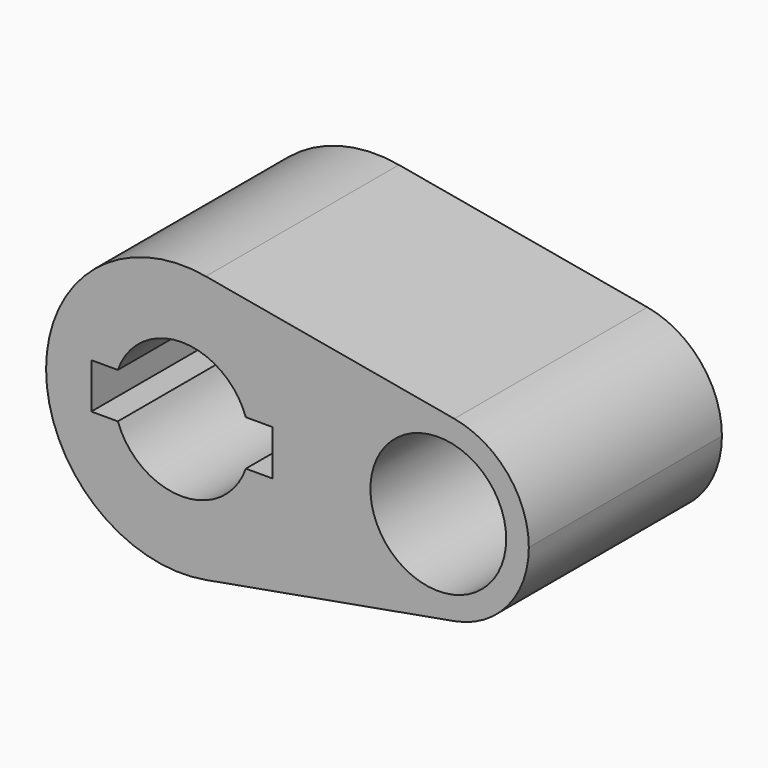
from build123d import *

# Parameters (mm, degrees)
F0_R     = 14.2875
F1_DEPTH = 25.4
F2_DEPTH = 50.8


with BuildPart() as f1:
    # F0 (on Front) → F1 (new body)
    with BuildSketch(Plane.XZ):
        with BuildLine():
            ThreePointArc((5.042647, -28.126541), (21.916025, -18.336262), (28.575, 0))
            ThreePointArc((28.575, 0), (21.916025, 18.336262), (5.042647, 28.126541))
            ThreePointArc((5.042647, 28.126541), (-28.575, 0), (5.042647, -28.126541))
        make_face()
        with BuildLine():
            ThreePointArc((-13.470384, 4.7625), (0, 14.2875), (13.470384, 4.7625))
            Line((13.470384, 4.7625), (19.05, 4.7625))
            Line((19.05, 4.7625), (19.05, -4.7625))
            Line((19.05, -4.7625), (13.470384, -4.7625))
            ThreePointArc((13.470384, -4.7625), (0, -14.2875), (-13.470384, -4.7625))
            Line((-13.470384, -4.7625), (-19.05, -4.7625))
            Line((-19.05, -4.7625), (-19.05, 4.7625))
            Line((-19.05, 4.7625), (-13.470384, 4.7625))
        make_face(mode=Mode.SUBTRACT)
        with BuildLine():
            ThreePointArc((73.025, 0), (68.585683, 12.224174), (57.336765, 18.751028))
            ThreePointArc((57.336765, 18.751028), (34.925, 0), (57.336765, -18.751028))
            ThreePointArc((57.336765, -18.751028), (68.585683, -12.224174), (73.025, 0))
        make_face()
        with Locations((53.975, 0)):
            Circle(F0_R, mode=Mode.SUBTRACT)
        with BuildLine():
            ThreePointArc((5.042647, 28.126541), (21.916025, 18.336262), (28.575, 0))
            ThreePointArc((28.575, 0), (21.916025, -18.336262), (5.042647, -28.126541))
            Line((5.042647, -28.126541), (57.336765, -18.751028))
            ThreePointArc((57.336765, -18.751028), (34.925, 0), (57.336765, 18.751028))
            Line((57.336765, 18.751028), (5.042647, 28.126541))
        make_face()
    extrude(amount=F1_DEPTH)

    # F0 (on Front) → F2 (join)
    with BuildSketch(Plane.XZ):
        with BuildLine():
            ThreePointArc((5.042647, -28.126541), (21.916025, -18.336262), (28.575, 0))
            ThreePointArc((28.575, 0), (21.916025, 18.336262), (5.042647, 28.126541))
            ThreePointArc((5.042647, 28.126541), (-28.575, 0), (5.042647, -28.126541))
        make_face()
        with BuildLine():
            ThreePointArc((-13.470384, 4.7625), (0, 14.2875), (13.470384, 4.7625))
            Line((13.470384, 4.7625), (19.05, 4.7625))
            Line((19.05, 4.7625), (19.05, -4.7625))
            Line((19.05, -4.7625), (13.470384, -4.7625))
            ThreePointArc((13.470384, -4.7625), (0, -14.2875), (-13.470384, -4.7625))
            Line((-13.470384, -4.7625), (-19.05, -4.7625))
            Line((-19.05, -4.7625), (-19.05, 4.7625))
            Line((-19.05, 4.7625), (-13.470384, 4.7625))
        make_face(mode=Mode.SUBTRACT)
        with BuildLine():
            ThreePointArc((5.042647, 28.126541), (21.916025, 18.336262), (28.575, 0))
            ThreePointArc((28.575, 0), (21.916025, -18.336262), (5.042647, -28.126541))
            Line((5.042647, -28.126541), (57.336765, -18.751028))
            ThreePointArc((57.336765, -18.751028), (34.925, 0), (57.336765, 18.751028))
            Line((57.336765, 18.751028), (5.042647, 28.126541))
        make_face()
        with BuildLine():
            ThreePointArc((73.025, 0), (68.585683, 12.224174), (57.336765, 18.751028))
            ThreePointArc((57.336765, 18.751028), (34.925, 0), (57.336765, -18.751028))
            ThreePointArc((57.336765, -18.751028), (68.585683, -12.224174), (73.025, 0))
        make_face()
        with Locations((53.975, 0)):
            Circle(F0_R, mode=Mode.SUBTRACT)
    extrude(amount=F2_DEPTH)


solid = f1.part
